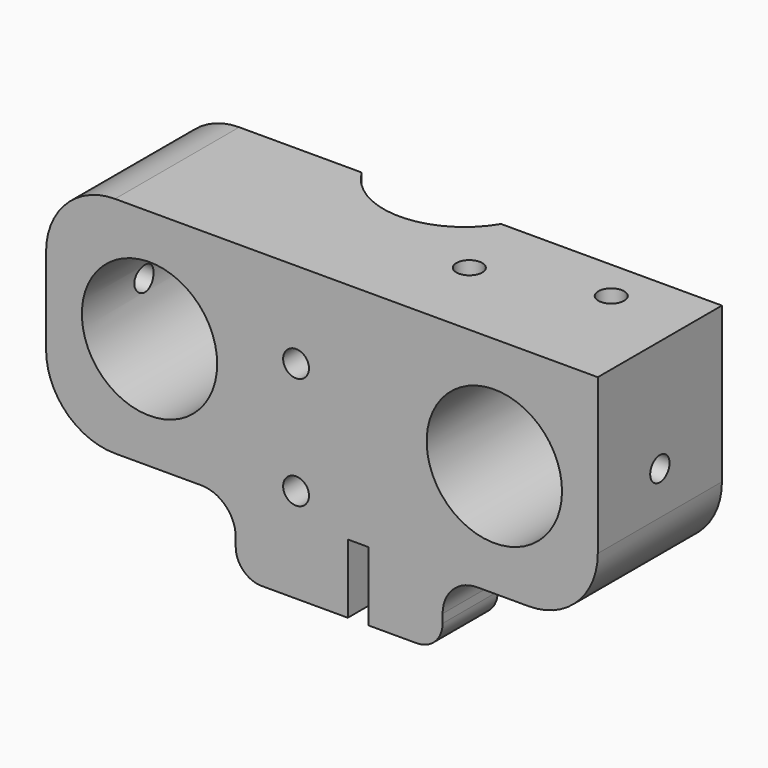
from build123d import *

# Parameters (mm, degrees)
BOX_W           = 64
BOX_H           = 18
BOX_DEPTH       = 26
SKETCH009_R     = 7.85
POCKET_DEPTH    = 18.001
SKETCH_W        = 24
SKETCH_H        = 8
PAD_DEPTH       = 8
SKETCH016_R     = 9.4
POCKET002_DEPTH = 34.001
SKETCH018_R     = 1.5
POCKET004_DEPTH = 5
SKETCH020_R     = 1.4
POCKET006_DEPTH = 5
SKETCH021_R     = 1.4
POCKET007_DEPTH = 5
SKETCH026_R     = 1.4
POCKET011_DEPTH = 8
SKETCH027_R     = 1.5
POCKET012_DEPTH = 7.8
SKETCH029_W     = 2.4
SKETCH029_H     = 8.929814
POCKET015_DEPTH = 8
FILLET004_R     = 4
FILLET005_R     = 3
FILLET006_R     = 1.5
FILLET007_R     = 8


with BuildPart() as part:
    # Box → Box (new body)
    with BuildSketch(Plane.XY):
        with Locations((32, 9)):
            Rectangle(BOX_W, BOX_H)
    extrude(amount=BOX_DEPTH)

    # Sketch009 → Pocket (cut, through all)
    with BuildSketch(Plane.XZ):
        with Locations((12, 13)):
            Circle(SKETCH009_R)
        with Locations((52, 13)):
            Circle(SKETCH009_R)
    extrude(amount=-POCKET_DEPTH, mode=Mode.SUBTRACT)

    # Sketch → Pad (new body)
    with BuildSketch(Plane(origin=(0, 0, 0), x_dir=(1, 0, 0), z_dir=(0, 0, -1))):
        with Locations((34, -4)):
            Rectangle(SKETCH_W, SKETCH_H)
    extrude(amount=PAD_DEPTH)

    # Sketch016 → Pocket002 (cut, through all)
    with BuildSketch(Plane.XY.offset(26)):
        with Locations((30.3, 22.8)):
            Circle(SKETCH016_R)
    extrude(amount=-POCKET002_DEPTH, mode=Mode.SUBTRACT)

    # Sketch018 → Pocket004 (cut)
    with BuildSketch(Plane.XY.offset(26)):
        with Locations((41.5, 9.5)):
            Circle(SKETCH018_R)
        with Locations((55, 13.2)):
            Circle(SKETCH018_R)
    extrude(amount=-POCKET004_DEPTH, mode=Mode.SUBTRACT)

    # Sketch020 → Pocket006 (cut)
    with BuildSketch(Plane.YZ.offset(64)):
        with Locations((9, 13)):
            Circle(SKETCH020_R)
    extrude(amount=-POCKET006_DEPTH, mode=Mode.SUBTRACT)

    # Sketch021 → Pocket007 (cut)
    with BuildSketch(Plane(origin=(0, 0, 0), x_dir=(0, -1, 0), z_dir=(-1, 0, 0))):
        with Locations((-9, 13)):
            Circle(SKETCH021_R)
    extrude(amount=-POCKET007_DEPTH, mode=Mode.SUBTRACT)

    # Sketch026 → Pocket011 (cut)
    with BuildSketch(Plane(origin=(0, 0, 0), x_dir=(1, 0, 0), z_dir=(0, 0, -1))):
        with Locations((38, -11)):
            Circle(SKETCH026_R)
    extrude(amount=-POCKET011_DEPTH, mode=Mode.SUBTRACT)

    # Sketch027 → Pocket012 (cut)
    with BuildSketch(Plane.XZ):
        with Locations((29, 3)):
            Circle(SKETCH027_R)
        with Locations((29, 16)):
            Circle(SKETCH027_R)
    extrude(amount=-POCKET012_DEPTH, mode=Mode.SUBTRACT)

    # Sketch029 → Pocket015 (cut)
    with BuildSketch(Plane.XZ):
        with Locations((36.2, -4.464907)):
            Rectangle(SKETCH029_W, SKETCH029_H)
    extrude(amount=-POCKET015_DEPTH, mode=Mode.SUBTRACT)

    # Fillet004
    fillet004_edges = [part.edges().sort_by_distance(p)[0] for p in [
        (22, 4, 0),
        (46, 4, 0),
    ]]
    fillet(fillet004_edges, radius=FILLET004_R)

    # Fillet005
    fillet005_edges = [part.edges().sort_by_distance(p)[0] for p in [
        (46, 4, -8),
        (22, 4, -8),
    ]]
    fillet(fillet005_edges, radius=FILLET005_R)

    # Fillet006
    fillet006_edges = [part.edges().sort_by_distance(p)[0] for p in [
        (37.4, 8, -4),
    ]]
    fillet(fillet006_edges, radius=FILLET006_R)

    # Fillet007
    fillet007_edges = [part.edges().sort_by_distance(p)[0] for p in [
        (0, 9, 26),
        (0, 9, 0),
        (64, 9, 0),
    ]]
    fillet(fillet007_edges, radius=FILLET007_R)


solid = part.part
